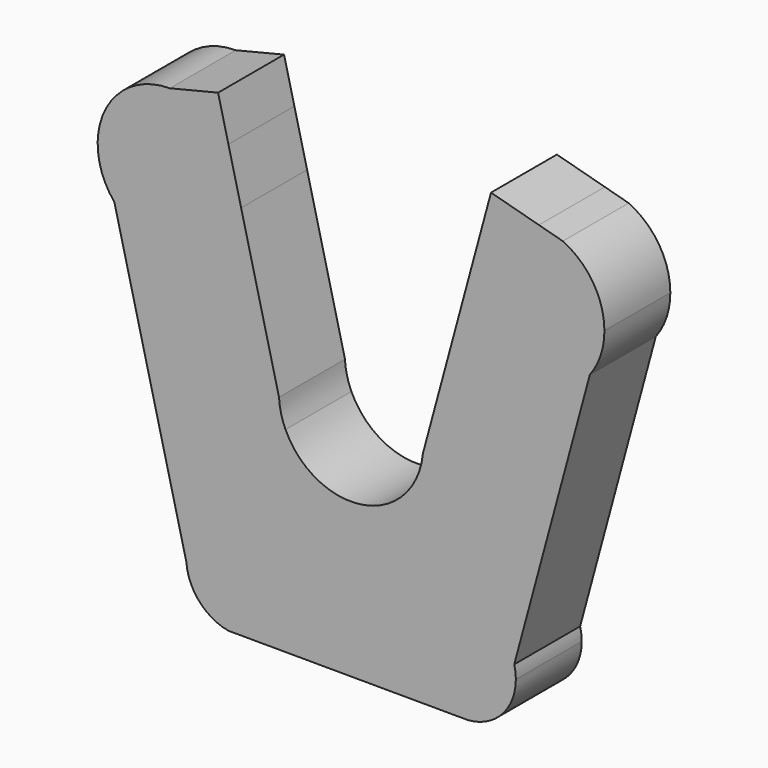
from build123d import *

# Parameters (mm, degrees)
F1_DEPTH = 25.4


with BuildPart() as f1:
    # F0 (on Front) → F1 (new body)
    with BuildSketch(Plane.XZ):
        with BuildLine():
            ThreePointArc((-55.88, 71.755), (-45.7062069243, 69.2896700239), (-37.7894898478, 62.4406183985))
            Line((-37.7894898478, 62.4406183985), (-40.9707072614, 75.4116006232))
            Line((-40.9707072614, 75.4116006232), (-55.88, 71.755))
        make_face()
        with BuildLine():
            ThreePointArc((20.1514706795, -9.3738388323), (-0.0637628383, -22.224908533), (-20.2049252332, -9.2580571029))
            ThreePointArc((-20.2049252332, -9.2580571029), (-21.5852935507, -5.293933068), (-22.1956935913, -1.1409693254))
            Line((-22.1956935913, -1.1409693254), (-33.8688111264, 46.4545830573))
            ThreePointArc((-33.8688111264, 46.4545830573), (-49.7758218318, 28.1597020636), (-72.9459940838, 35.2926382032))
            Line((-72.9459940838, 35.2926382032), (-50.7529312723, -55.1965631947))
            ThreePointArc((-50.7529312723, -55.1965631947), (-35.536234837, -38.1117715463), (-19.05, -53.975))
            ThreePointArc((-19.05, -53.975), (-22.7428404887, -64.153929936), (-32.1033057816, -69.5972170878))
            Line((-32.1033057816, -69.5972170878), (33.760778806, -69.8072523354))
            ThreePointArc((33.760778806, -69.8072523354), (22.7534984393, -43.7833281666), (50.3064695665, -50.0474029008))
            Line((50.3064695665, -50.0474029008), (73.6114514871, 36.1305129516))
            ThreePointArc((73.6114514871, 36.1305129516), (51.7301219198, 27.695872197), (34.4690239948, 43.5700728609))
            Line((34.4690239948, 43.5700728609), (22.1293157515, -2.0600993596))
            ThreePointArc((22.1293157515, -2.0600993596), (21.4543450512, -5.8018706833), (20.1514706795, -9.3738388323))
        make_face()
        with BuildLine():
            Line((43.1457490814, 75.6551475002), (40.391048509, 65.4687266339))
            ThreePointArc((40.391048509, 65.4687266339), (48.4732019865, 70.4844737034), (57.912088459, 71.6619055098))
            Line((57.912088459, 71.6619055098), (43.1457490814, 75.6551475002))
        make_face()
        with BuildLine():
            Line((40.391048509, 65.4687266339), (34.4690239948, 43.5700728609))
            ThreePointArc((34.4690239948, 43.5700728609), (51.7301219198, 27.695872197), (73.6114514871, 36.1305129516))
            ThreePointArc((73.6114514871, 36.1305129516), (76.9516887589, 42.4635611621), (78.105, 49.53))
            ThreePointArc((78.105, 49.53), (74.6263449007, 61.4683909244), (65.2793372, 69.6695899958))
            Line((65.2793372, 69.6695899958), (57.912088459, 71.6619055098))
            ThreePointArc((57.912088459, 71.6619055098), (48.4732019865, 70.4844737034), (40.391048509, 65.4687266339))
        make_face()
        with BuildLine():
            ThreePointArc((50.8, -53.975), (50.6761341555, -51.9957582726), (50.3064695665, -50.0474029008))
            ThreePointArc((50.3064695665, -50.0474029008), (22.7534984393, -43.7833281666), (33.760778806, -69.8072523354))
            Line((33.760778806, -69.8072523354), (35.988222994, -69.8143554751))
            ThreePointArc((35.988222994, -69.8143554751), (46.5201345406, -64.8178999804), (50.8, -53.975))
        make_face()
        with BuildLine():
            ThreePointArc((-19.05, -53.975), (-35.536234837, -38.1117715463), (-50.7529312723, -55.1965631947))
            ThreePointArc((-50.7529312723, -55.1965631947), (-46.7400785083, -64.577808347), (-37.8462717948, -69.5789032329))
            Line((-37.8462717948, -69.5789032329), (-32.1033057816, -69.5972170878))
            ThreePointArc((-32.1033057816, -69.5972170878), (-22.7428404887, -64.153929936), (-19.05, -53.975))
        make_face()
        with BuildLine():
            ThreePointArc((-72.9459940838, 35.2926382032), (-49.7758218318, 28.1597020636), (-33.8688111264, 46.4545830573))
            Line((-33.8688111264, 46.4545830573), (-37.7894898478, 62.4406183985))
            ThreePointArc((-37.7894898478, 62.4406183985), (-45.7062069243, 69.2896700239), (-55.88, 71.755))
            ThreePointArc((-55.88, 71.755), (-76.0092820405, 58.9513921229), (-72.9459940838, 35.2926382032))
        make_face()
    extrude(amount=F1_DEPTH)


solid = f1.part
